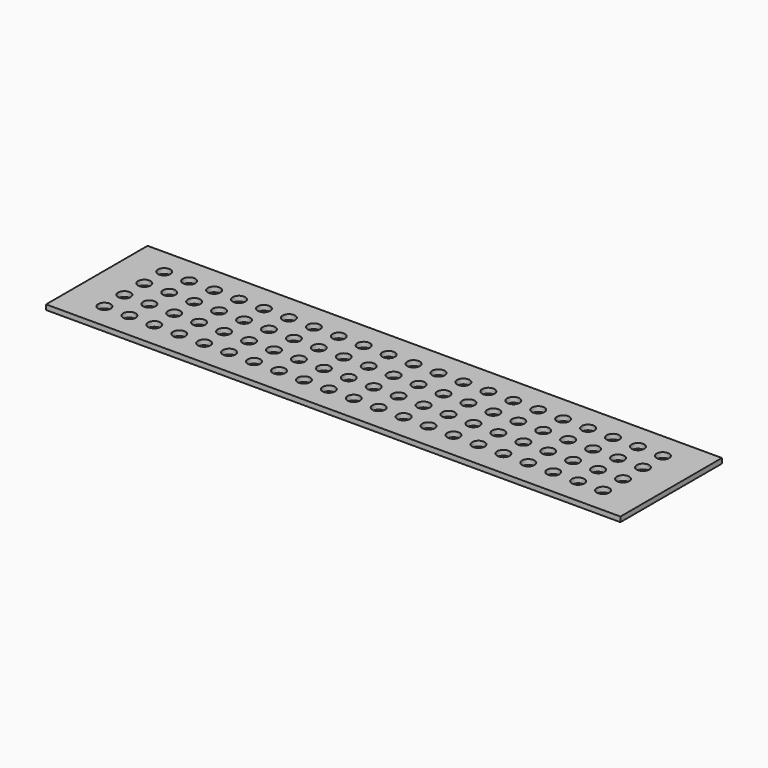
from build123d import *

# Parameters (mm, degrees)
BOX_W        = 115
BOX_H        = 25.4
BOX_DEPTH    = 1
SKETCH_R     = 1.25
POCKET_DEPTH = 5


with BuildPart() as part:
    # Box → Box (new body)
    with BuildSketch(Plane.XY):
        with Locations((57.5, 12.7)):
            Rectangle(BOX_W, BOX_H)
    extrude(amount=BOX_DEPTH)

    # Sketch (on Face6 of BaseFeature) → Pocket (cut)
    with BuildSketch(Plane.XY.offset(1)):
        with Locations((7.536244, 20.148321)):
            Circle(SKETCH_R)
        with Locations((12.526654, 20.150693)):
            Circle(SKETCH_R)
        with Locations((17.517064, 20.153065)):
            Circle(SKETCH_R)
        with Locations((22.507474, 20.155437)):
            Circle(SKETCH_R)
        with Locations((27.497884, 20.157809)):
            Circle(SKETCH_R)
        with Locations((32.488294, 20.160181)):
            Circle(SKETCH_R)
        with Locations((37.478704, 20.162553)):
            Circle(SKETCH_R)
        with Locations((42.469114, 20.164925)):
            Circle(SKETCH_R)
        with Locations((47.459524, 20.167297)):
            Circle(SKETCH_R)
        with Locations((52.449934, 20.169669)):
            Circle(SKETCH_R)
        with Locations((57.440344, 20.172041)):
            Circle(SKETCH_R)
        with Locations((62.430754, 20.174413)):
            Circle(SKETCH_R)
        with Locations((67.421164, 20.176785)):
            Circle(SKETCH_R)
        with Locations((72.411574, 20.179157)):
            Circle(SKETCH_R)
        with Locations((77.401984, 20.181529)):
            Circle(SKETCH_R)
        with Locations((82.392394, 20.183901)):
            Circle(SKETCH_R)
        with Locations((87.382804, 20.186273)):
            Circle(SKETCH_R)
        with Locations((92.373214, 20.188645)):
            Circle(SKETCH_R)
        with Locations((97.363624, 20.191017)):
            Circle(SKETCH_R)
        with Locations((102.354034, 20.193389)):
            Circle(SKETCH_R)
        with Locations((107.344444, 20.195761)):
            Circle(SKETCH_R)
        with Locations((7.538616, 15.157911)):
            Circle(SKETCH_R)
        with Locations((12.529026, 15.160283)):
            Circle(SKETCH_R)
        with Locations((17.519436, 15.162655)):
            Circle(SKETCH_R)
        with Locations((22.509846, 15.165027)):
            Circle(SKETCH_R)
        with Locations((27.500256, 15.167399)):
            Circle(SKETCH_R)
        with Locations((32.490666, 15.169771)):
            Circle(SKETCH_R)
        with Locations((37.481076, 15.172143)):
            Circle(SKETCH_R)
        with Locations((42.471486, 15.174515)):
            Circle(SKETCH_R)
        with Locations((47.461896, 15.176887)):
            Circle(SKETCH_R)
        with Locations((52.452306, 15.179259)):
            Circle(SKETCH_R)
        with Locations((57.442716, 15.181631)):
            Circle(SKETCH_R)
        with Locations((62.433126, 15.184003)):
            Circle(SKETCH_R)
        with Locations((67.423536, 15.186375)):
            Circle(SKETCH_R)
        with Locations((72.413946, 15.188747)):
            Circle(SKETCH_R)
        with Locations((77.404356, 15.191119)):
            Circle(SKETCH_R)
        with Locations((82.394766, 15.193491)):
            Circle(SKETCH_R)
        with Locations((87.385176, 15.195863)):
            Circle(SKETCH_R)
        with Locations((92.375586, 15.198235)):
            Circle(SKETCH_R)
        with Locations((97.365996, 15.200607)):
            Circle(SKETCH_R)
        with Locations((102.356406, 15.202979)):
            Circle(SKETCH_R)
        with Locations((107.346816, 15.205351)):
            Circle(SKETCH_R)
        with Locations((7.540988, 10.167501)):
            Circle(SKETCH_R)
        with Locations((12.531398, 10.169873)):
            Circle(SKETCH_R)
        with Locations((17.521808, 10.172245)):
            Circle(SKETCH_R)
        with Locations((22.512218, 10.174617)):
            Circle(SKETCH_R)
        with Locations((27.502628, 10.176989)):
            Circle(SKETCH_R)
        with Locations((32.493038, 10.179361)):
            Circle(SKETCH_R)
        with Locations((37.483448, 10.181733)):
            Circle(SKETCH_R)
        with Locations((42.473858, 10.184105)):
            Circle(SKETCH_R)
        with Locations((47.464268, 10.186477)):
            Circle(SKETCH_R)
        with Locations((52.454678, 10.188849)):
            Circle(SKETCH_R)
        with Locations((57.445088, 10.191221)):
            Circle(SKETCH_R)
        with Locations((62.435498, 10.193593)):
            Circle(SKETCH_R)
        with Locations((67.425908, 10.195965)):
            Circle(SKETCH_R)
        with Locations((72.416318, 10.198337)):
            Circle(SKETCH_R)
        with Locations((77.406728, 10.200709)):
            Circle(SKETCH_R)
        with Locations((82.397138, 10.203081)):
            Circle(SKETCH_R)
        with Locations((87.387548, 10.205453)):
            Circle(SKETCH_R)
        with Locations((92.377958, 10.207825)):
            Circle(SKETCH_R)
        with Locations((97.368368, 10.210197)):
            Circle(SKETCH_R)
        with Locations((102.358778, 10.212569)):
            Circle(SKETCH_R)
        with Locations((107.349188, 10.214941)):
            Circle(SKETCH_R)
        with Locations((7.54336, 5.177091)):
            Circle(SKETCH_R)
        with Locations((12.53377, 5.179463)):
            Circle(SKETCH_R)
        with Locations((17.52418, 5.181835)):
            Circle(SKETCH_R)
        with Locations((22.51459, 5.184207)):
            Circle(SKETCH_R)
        with Locations((27.505, 5.186579)):
            Circle(SKETCH_R)
        with Locations((32.49541, 5.188951)):
            Circle(SKETCH_R)
        with Locations((37.48582, 5.191323)):
            Circle(SKETCH_R)
        with Locations((42.47623, 5.193695)):
            Circle(SKETCH_R)
        with Locations((47.46664, 5.196067)):
            Circle(SKETCH_R)
        with Locations((52.45705, 5.198439)):
            Circle(SKETCH_R)
        with Locations((57.44746, 5.200811)):
            Circle(SKETCH_R)
        with Locations((62.43787, 5.203183)):
            Circle(SKETCH_R)
        with Locations((67.42828, 5.205555)):
            Circle(SKETCH_R)
        with Locations((72.41869, 5.207927)):
            Circle(SKETCH_R)
        with Locations((77.4091, 5.210299)):
            Circle(SKETCH_R)
        with Locations((82.39951, 5.212671)):
            Circle(SKETCH_R)
        with Locations((87.38992, 5.215043)):
            Circle(SKETCH_R)
        with Locations((92.38033, 5.217415)):
            Circle(SKETCH_R)
        with Locations((97.37074, 5.219787)):
            Circle(SKETCH_R)
        with Locations((102.36115, 5.222159)):
            Circle(SKETCH_R)
        with Locations((107.35156, 5.224531)):
            Circle(SKETCH_R)
    extrude(amount=-POCKET_DEPTH, mode=Mode.SUBTRACT)


solid = part.part
